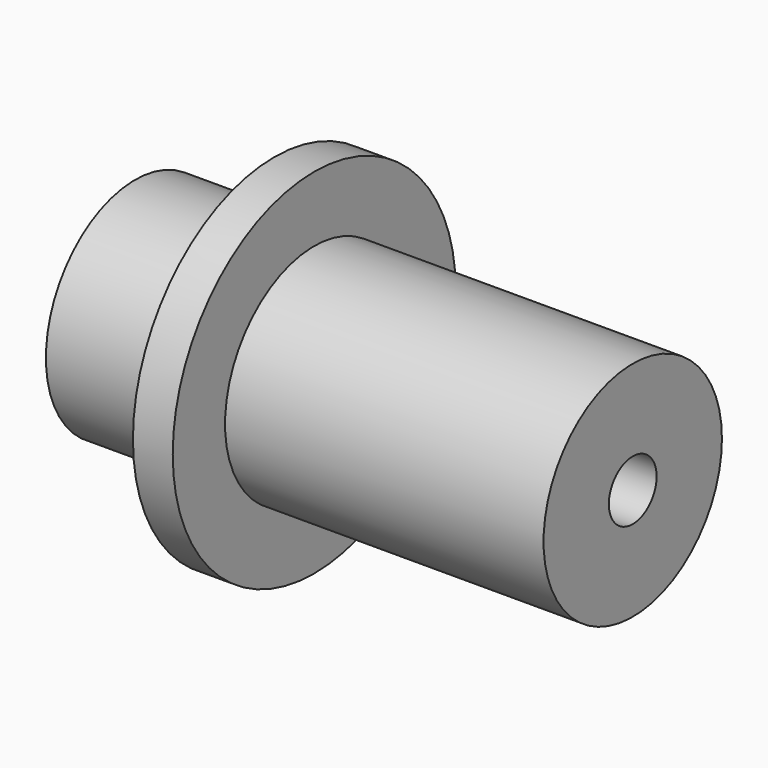
from build123d import *


with BuildPart() as f1:
    # F0 (on Top) → F1 (revolve)
    with BuildSketch(Plane.XY):
        Polygon((-8.75, 5.125), (-8.75, 1.658865), (13, 1.658865), (13, 0), (22.5, 0), (22.5, 5.125), (2.5, 5.125), (2.5, 9.232625), (0, 9.232625), (0, 5.125), align=None)
    revolve(axis=Axis((7.169014, -1.875, 0), (1, 0, 0)))


with BuildPart() as f2:
    # F0 (on Top) → F2 (revolve)
    with BuildSketch(Plane.XY):
        Polygon((-8.75, 5.125), (-8.75, 1.658865), (13, 1.658865), (13, 0), (22.5, 0), (22.5, 5.125), (2.5, 5.125), (2.5, 9.232625), (0, 9.232625), (0, 5.125), align=None)
    revolve(axis=Axis((7.169014, -1.875, 0), (1, 0, 0)))


solid = Compound([f1.part, f2.part])
